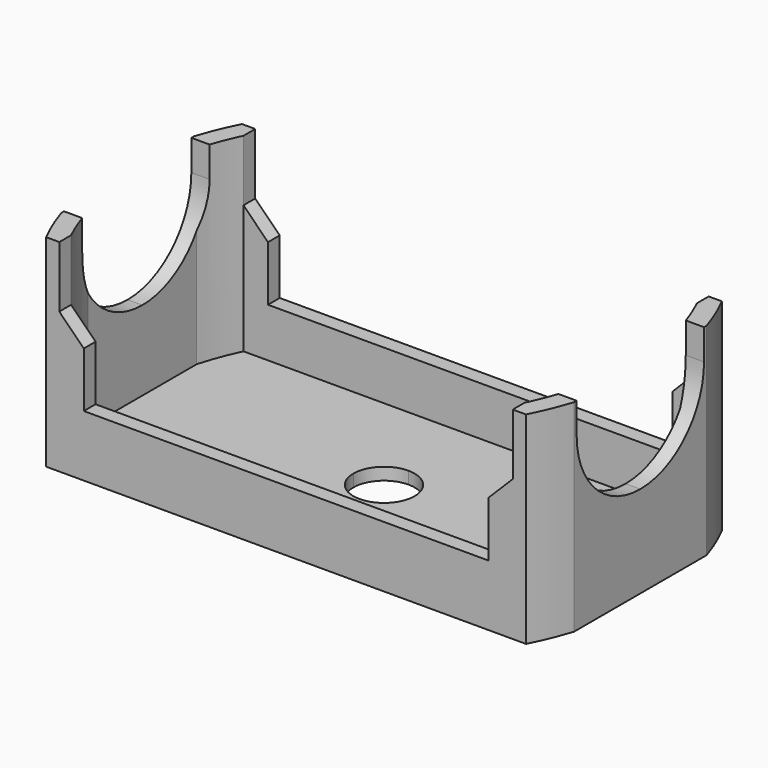
from build123d import *

# Parameters (mm, degrees)
PAD_DEPTH                  = 2
PAD001_DEPTH               = 33
POCKET_DEPTH               = 133.8763
POCKET001_DEPTH            = 155.7439
PAD_MIRRORED_2_DEPTH       = 2
PAD001_MIRRORED_2_DEPTH    = 33
POCKET_MIRRORED_2_DEPTH    = 133.8763
POCKET001_MIRRORED_2_DEPTH = 155.7439


with BuildPart() as part:
    # Sketch → Pad (new body)
    with BuildSketch(Plane.XY):
        with BuildLine():
            ThreePointArc((5, 0), (3.535534, 3.535534), (0, 5))
            Line((0, 5), (0, 20))
            Line((0, 20), (39.191836, 20))
            ThreePointArc((41.867601, 13.531593), (40.658555, 16.819092), (39.191836, 20))
            Line((41.867601, 13.531593), (41.867601, 0))
            Line((41.867601, 0), (5, 0))
        make_face()
    pad = extrude(amount=PAD_DEPTH)

    # Sketch001 → Pad001 (join)
    with BuildSketch(Plane.XY):
        with BuildLine():
            ThreePointArc((41.867601, 13.531593), (40.658555, 16.819092), (39.191836, 20))
            Line((0, 20), (39.191836, 20))
            Line((0, 17.6), (0, 20))
            Line((37.030258, 17.6), (0, 17.6))
            ThreePointArc((39.467601, 11.104436), (38.386569, 14.403865), (37.030258, 17.6))
            Line((39.467601, 11.104436), (39.467601, 0))
            Line((39.467601, 0), (41.867601, 0))
            Line((41.867601, 0), (41.867601, 13.531593))
        make_face()
    pad001 = extrude(amount=PAD001_DEPTH)

    # Sketch002 → Pocket (cut, through all)
    with BuildSketch(Plane.XZ):
        Polygon((0, 10), (33.030258, 10), (33.030258, 19), (37.030258, 23), (37.030258, 33), (0, 33), align=None)
    pocket = extrude(amount=-POCKET_DEPTH, mode=Mode.SUBTRACT)

    # Sketch003 → Pocket001 (cut, through all)
    with BuildSketch(Plane.YZ):
        with BuildLine():
            Line((0, 15.000035), (0, 33))
            Line((0, 33), (13, 33))
            Line((13, 28), (13, 33))
            ThreePointArc((0, 15.000035), (9.192376, 18.807634), (13, 28))
        make_face()
    pocket001 = extrude(amount=POCKET001_DEPTH, mode=Mode.SUBTRACT)

    # Sketch Mirrored 2 → Pad Mirrored 2 (add)
    with BuildSketch(Plane(origin=(0, 0, 0), x_dir=(-1, 0, 0), z_dir=(0, 0, -1))):
        with BuildLine():
            ThreePointArc((5, 0), (3.535534, 3.535534), (0, 5))
            Line((0, 5), (0, 20))
            Line((0, 20), (39.191836, 20))
            ThreePointArc((41.867601, 13.531593), (40.658555, 16.819092), (39.191836, 20))
            Line((41.867601, 13.531593), (41.867601, 0))
            Line((41.867601, 0), (5, 0))
        make_face()
    pad_mirrored_2 = extrude(amount=-PAD_MIRRORED_2_DEPTH)

    # Sketch001 Mirrored 2 → Pad001 Mirrored 2 (add)
    with BuildSketch(Plane(origin=(0, 0, 0), x_dir=(-1, 0, 0), z_dir=(0, 0, -1))):
        with BuildLine():
            ThreePointArc((41.867601, 13.531593), (40.658555, 16.819092), (39.191836, 20))
            Line((0, 20), (39.191836, 20))
            Line((0, 17.6), (0, 20))
            Line((37.030258, 17.6), (0, 17.6))
            ThreePointArc((39.467601, 11.104436), (38.386569, 14.403865), (37.030258, 17.6))
            Line((39.467601, 11.104436), (39.467601, 0))
            Line((39.467601, 0), (41.867601, 0))
            Line((41.867601, 0), (41.867601, 13.531593))
        make_face()
    pad001_mirrored_2 = extrude(amount=-PAD001_MIRRORED_2_DEPTH)

    # Sketch002 Mirrored 2 → Pocket Mirrored 2 (cut, through all)
    with BuildSketch(Plane(origin=(0, 0, 0), x_dir=(-1, 0, 0), z_dir=(0, 1, 0))):
        Polygon((0, 10), (33.030258, 10), (33.030258, 19), (37.030258, 23), (37.030258, 33), (0, 33), align=None)
    pocket_mirrored_2 = extrude(amount=POCKET_MIRRORED_2_DEPTH, mode=Mode.SUBTRACT)

    # Sketch003 Mirrored 2 → Pocket001 Mirrored 2 (cut, through all)
    with BuildSketch(Plane.YZ):
        with BuildLine():
            Line((0, 15.000035), (0, 33))
            Line((0, 33), (13, 33))
            Line((13, 28), (13, 33))
            ThreePointArc((0, 15.000035), (9.192376, 18.807634), (13, 28))
        make_face()
    pocket001_mirrored_2 = extrude(amount=-POCKET001_MIRRORED_2_DEPTH, mode=Mode.SUBTRACT)

    # Mirrored001: Pad, Pad001, Pocket, Pocket001, Pad Mirrored 2, Pad001 Mirrored 2, Pocket Mirrored 2, Pocket001 Mirrored 2 across Sketch H_Axis
    add(pad.mirror(Plane.ZX))
    add(pad001.mirror(Plane.ZX))
    add(pocket.mirror(Plane.ZX), mode=Mode.SUBTRACT)
    add(pocket001.mirror(Plane.ZX), mode=Mode.SUBTRACT)
    add(pad_mirrored_2.mirror(Plane.ZX))
    add(pad001_mirrored_2.mirror(Plane.ZX))
    add(pocket_mirrored_2.mirror(Plane.ZX), mode=Mode.SUBTRACT)
    add(pocket001_mirrored_2.mirror(Plane.ZX), mode=Mode.SUBTRACT)


solid = part.part
